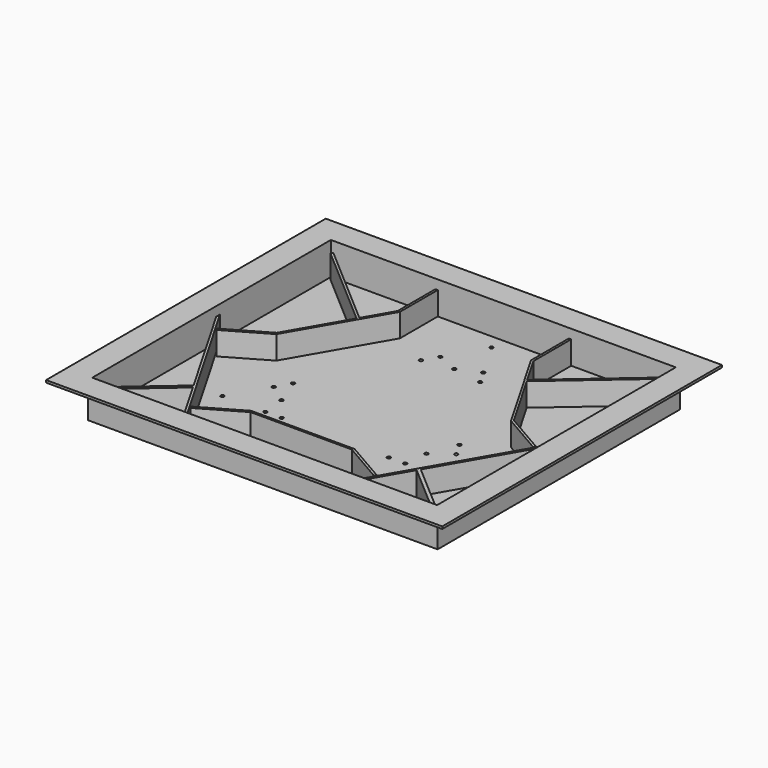
from build123d import *

# Parameters (mm, degrees)
F0_W     = 1500
F0_H     = 1300
F1_DEPTH = 150
F2_W     = 1480
F2_H     = 1280
F3_DEPTH = 130
F4_W     = 1700
F4_H     = 1500
F4_W_2   = 1480
F4_H_2   = 1280
F5_DEPTH = 10
F6_R     = 7.5
F7_DEPTH = 20.001
F8_W     = 10
F8_H     = 203.1123805046
F9_DEPTH = 100


with BuildPart() as f1:
    # F0 (on Top) → F1 (new body)
    with BuildSketch(Plane.XY):
        Rectangle(F0_W, F0_H)
    extrude(amount=F1_DEPTH)

    # F2 (on face) → F3 (cut)
    with BuildSketch(Plane.XY.offset(150)):
        Rectangle(F2_W, F2_H)
    extrude(amount=-F3_DEPTH, mode=Mode.SUBTRACT)

    # F4 (on face) → F5 (join)
    with BuildSketch(Plane.XY.offset(150)):
        Rectangle(F4_W, F4_H)
        Rectangle(F4_W_2, F4_H_2, mode=Mode.SUBTRACT)
    extrude(amount=F5_DEPTH)

    # F6 (on face) → F7 (cut, through all)
    with BuildSketch(Plane.XY.offset(20)):
        with Locations((0, 576.8876194954)):
            Circle(F6_R)
        with Locations((-484.1082007155, -261.6123805046)):
            Circle(F6_R)
        with Locations((484.1082007155, -261.6123805046)):
            Circle(F6_R)
        with Locations((-92, 416.9192598449)):
            Circle(F6_R)
        with Locations((92, 416.9192598449)):
            Circle(F6_R)
        with Locations((-127, 356.8787698224)):
            Circle(F6_R)
        with Locations((127, 356.8787698224)):
            Circle(F6_R)
        with Locations((-230.0749478413, -261.5931819487)):
            Circle(F6_R)
        with Locations((-357.0749478413, -41.6227293875)):
            Circle(F6_R)
        with Locations((-299.5715374564, -261.3025378275)):
            Circle(F6_R)
        with Locations((-391.5715374564, -101.9538635312)):
            Circle(F6_R)
        with Locations((391.5715374564, -101.9538635312)):
            Circle(F6_R)
        with Locations((299.5715374564, -261.3025378275)):
            Circle(F6_R)
        with Locations((230.0749478413, -261.5931819487)):
            Circle(F6_R)
        with Locations((357.0749478413, -41.6227293875)):
            Circle(F6_R)
        with Locations((0, 376.8876194954)):
            Circle(F6_R)
        with Locations((310.9031199586, -161.6123805046)):
            Circle(F6_R)
        with Locations((-310.9031199586, -161.6123805046)):
            Circle(F6_R)
    extrude(amount=-F7_DEPTH, mode=Mode.SUBTRACT)

    # F8 (on face) → F9 (join)
    with BuildSketch(Plane.XY.offset(20)):
        with Locations((-286.2588901058, 538.4438097477)):
            Rectangle(F8_W, F8_H)
        Polygon((-503.4940892386, 51.9649633672), (-281.2588901058, 436.8876194954), (-291.2588901058, 436.8876194954), (-359.9470881013, 317.9161706869), (-365.0381898631, 309.0981237688), (-508.4940892386, 60.6252174051), (-684.3945705787, -40.9309728472), (-679.3945705787, -49.5912268851), align=None)
        Polygon((-365.0381898631, 309.0981237688), (-359.9470881013, 317.9161706869), (-722.3309758605, 631.329262803), (-725.6017355252, 627.5474469407), (-728.8724951898, 623.7656310784), align=None)
        with Locations((286.2588901058, 538.4438097477)):
            Rectangle(F8_W, F8_H)
        Polygon((359.9470881013, 317.9161706869), (291.2588901058, 436.8876194954), (281.2588901058, 436.8876194954), (503.4940892386, 51.9649633672), (508.4940892386, 60.6252174051), (365.0381898631, 309.0981237688), align=None)
        Polygon((722.3309758605, 631.329262803), (359.9470881013, 317.9161706869), (365.0381898631, 309.0981237688), (728.8724951898, 623.7656310784), (725.6017355252, 627.5474469407), align=None)
        Polygon((508.4940892386, 60.6252174051), (503.4940892386, 51.9649633672), (679.3945705787, -49.5912268851), (684.3945705787, -40.9309728472), align=None)
        Polygon((217.2351991328, -443.8499784143), (393.1356804729, -545.4061686666), (398.1356804729, -536.7459146288), (222.2351991328, -435.1897243764), (0, -435.1897243764), (-222.2351991328, -435.1897243764), (-398.1356804729, -536.7459146288), (-393.1356804729, -545.4061686666), (-217.2351991328, -443.8499784143), (0, -443.8499784143), align=None)
        Polygon((-344.6060815022, -640), (-740, 44.842355842), (-748.4989762306, 39.9354696274), (-487.5375583846, -412.0629648972), (-480.1509961227, -424.856866028), (-353.1050577328, -644.9068862146), align=None)
        Polygon((-480.1509961227, -424.856866028), (-487.5375583846, -412.0629648972), (-730.4277149046, -622.1301272929), (-725.6822450561, -627.6170768052), (-720.9367752075, -633.1040263176), align=None)
        Polygon((748.4989762306, 39.9354696274), (740, 44.842355842), (344.6060815022, -640), (353.1050577328, -644.9068862146), (480.1509961227, -424.856866028), (487.5375583846, -412.0629648972), align=None)
        Polygon((730.4277149046, -622.1301272929), (487.5375583846, -412.0629648972), (480.1509961227, -424.856866028), (720.9367752075, -633.1040263176), (725.6822450561, -627.6170768052), align=None)
    extrude(amount=F9_DEPTH)


solid = f1.part
